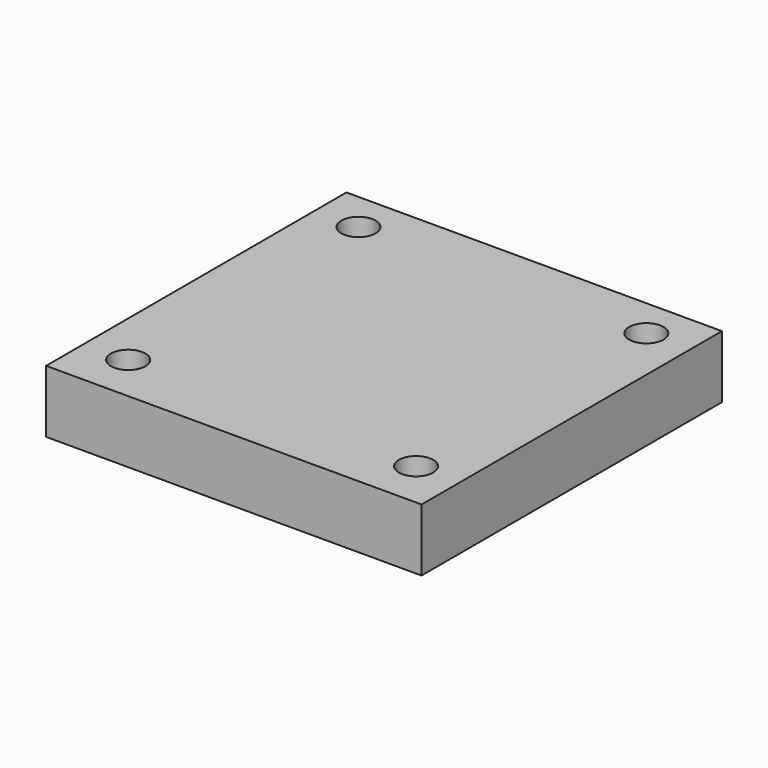
from build123d import *

# Parameters (mm, degrees)
F0_W     = 60
F0_H     = 60
F1_DEPTH = 10
F3_D     = 5.5


with BuildPart() as f1:
    # F0 (on Top) → F1 (new body)
    with BuildSketch(Plane.XY):
        Rectangle(F0_W, F0_H)
    extrude(amount=-F1_DEPTH)

    # F3 (through all)
    with Locations(Plane.XY):
        with Locations((23, -22.3507442691), (-23, -22.3507442691), (-23, 23.6492557309), (23, 23.6492557309)):
            Hole(F3_D / 2)


solid = f1.part
